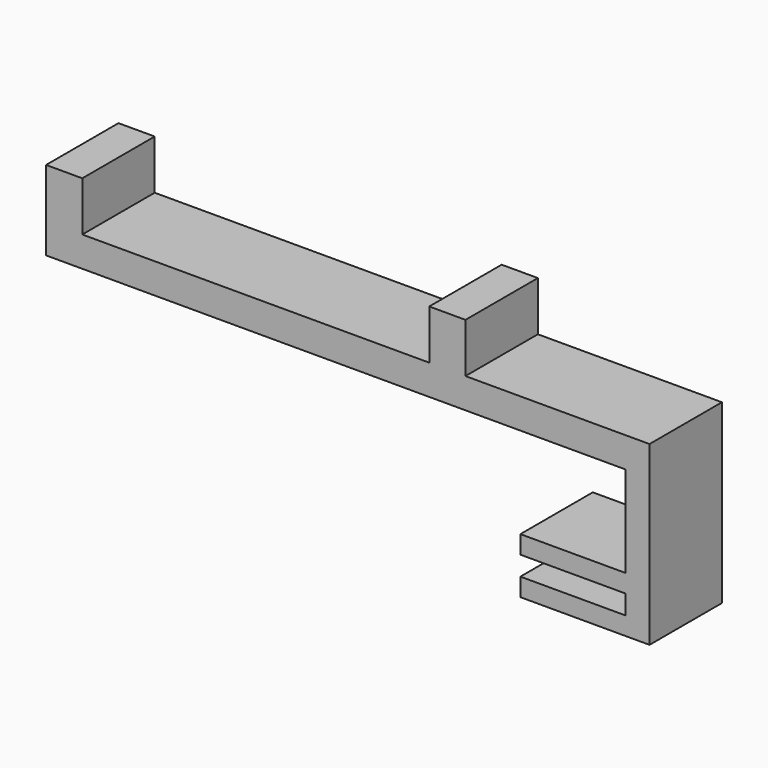
from build123d import *

# Parameters (mm, degrees)
F0_W     = 6
F0_H     = 8.2
F0_W_2   = 17.4
F0_H_2   = 3
F1_DEPTH = 7.5


with BuildPart() as f1:
    # F0 (on Front) → F1 (new body, symmetric)
    with BuildSketch(Plane.XZ):
        Polygon((-49.911916, 14.810329), (-49.911916, 9.810329), (46.088084, 9.810329), (50.088084, 9.810329), (50.088084, 14.810329), (19.588084, 14.810329), (13.588084, 14.810329), (-43.911916, 14.810329), align=None)
        with Locations((16.588084, 18.910329)):
            Rectangle(F0_W, F0_H)
        with Locations((-46.911916, 18.910329)):
            Rectangle(F0_W, F0_H)
        Polygon((50.088084, 9.810329), (46.088084, 9.810329), (46.088084, -5.289671), (46.088084, -8.289671), (46.088084, -11.489671), (46.088084, -14.489671), (50.088084, -14.489671), align=None)
        with Locations((37.388084, -6.789671)):
            Rectangle(F0_W_2, F0_H_2)
        with Locations((37.388084, -12.989671)):
            Rectangle(F0_W_2, F0_H_2)
    extrude(amount=F1_DEPTH, both=True)


solid = f1.part
